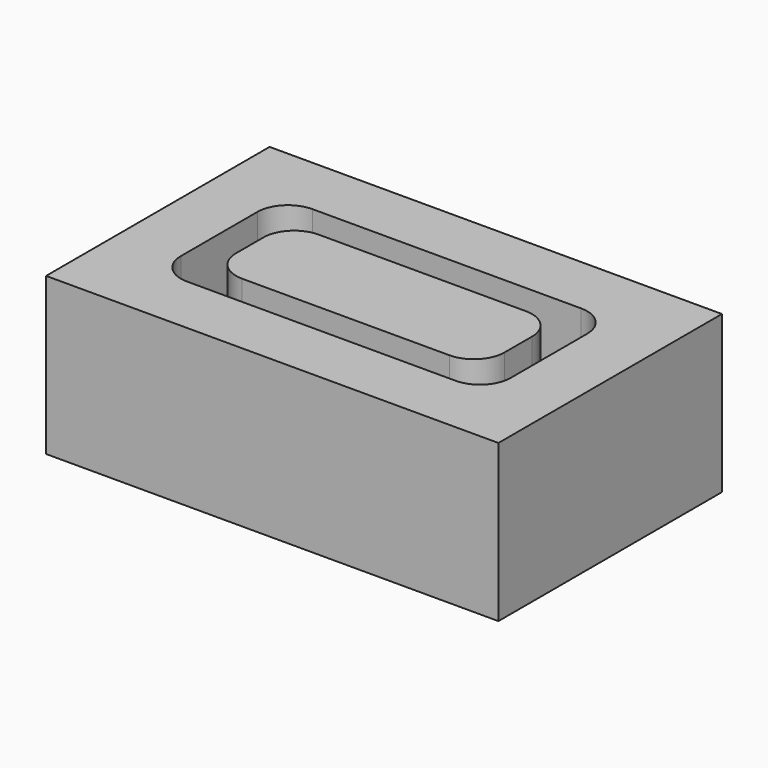
from build123d import *

# Parameters (mm, degrees)
F0_W     = 93.756211
F0_H     = 57.899028
F1_DEPTH = 25.4
F2_W     = 93.756211
F2_H     = 57.899028
F3_DEPTH = 7.105513
F6_DEPTH = 25.4


with BuildPart() as f1:
    # F0 (on Top) → F1 (new body)
    with BuildSketch(Plane.XY):
        with Locations((11.77345, 3.361836)):
            Rectangle(F0_W, F0_H)
        with BuildLine():
            Line((39.601556, -12.887678), (-16.054655, -12.887678))
            ThreePointArc((-16.054655, -12.887678), (-20.544783, -11.027806), (-22.404655, -6.537678))
            Line((-22.404655, -6.537678), (-22.404655, 13.26135))
            ThreePointArc((-22.404655, 13.26135), (-20.544783, 17.751478), (-16.054655, 19.61135))
            Line((-16.054655, 19.61135), (39.601556, 19.61135))
            ThreePointArc((39.601556, 19.61135), (44.091684, 17.751478), (45.951556, 13.26135))
            Line((45.951556, 13.26135), (45.951556, -6.537678))
            ThreePointArc((45.951556, -6.537678), (44.091684, -11.027806), (39.601556, -12.887678))
        make_face(mode=Mode.SUBTRACT)
    extrude(amount=F1_DEPTH)

    # F2 (on face) → F3 (join)
    with BuildSketch(Plane(origin=(0, 0, 0), x_dir=(1, 0, 0), z_dir=(0, 0, -1))):
        with Locations((11.77345, -3.361836)):
            Rectangle(F2_W, F2_H)
    extrude(amount=F3_DEPTH)

    # F5 (on face) → F6 (join)
    with BuildSketch(Plane.XY):
        with BuildLine():
            Line((-16.054655, 6.91135), (-16.054655, -0.187678))
            ThreePointArc((-16.054655, -0.187678), (-14.194783, -4.677806), (-9.704655, -6.537678))
            Line((-9.704655, -6.537678), (33.251556, -6.537678))
            ThreePointArc((33.251556, -6.537678), (37.741684, -4.677806), (39.601556, -0.187678))
            Line((39.601556, -0.187678), (39.601556, 6.91135))
            ThreePointArc((39.601556, 6.91135), (37.741684, 11.401478), (33.251556, 13.26135))
            Line((33.251556, 13.26135), (-9.704655, 13.26135))
            ThreePointArc((-9.704655, 13.26135), (-14.194783, 11.401478), (-16.054655, 6.91135))
        make_face()
    extrude(amount=F6_DEPTH)


solid = f1.part
